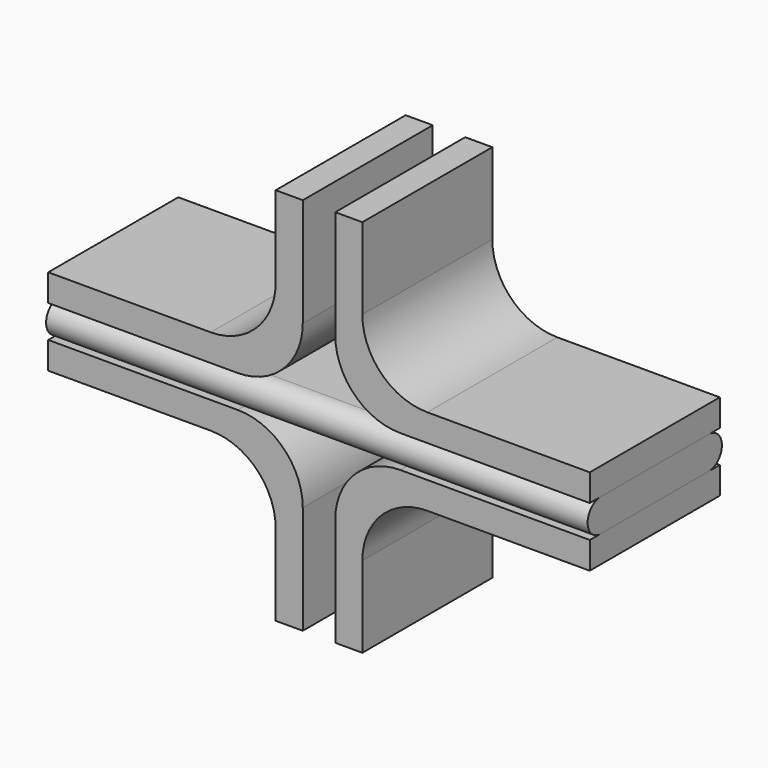
from build123d import *

# Parameters (mm, degrees)
F1_DEPTH = 50
F3_DEPTH = 15


with BuildPart() as f1:
    # F0 (on Right) → F1 (new body, symmetric)
    with BuildSketch(Plane.YZ):
        with BuildLine():
            Line((12.5, 3), (-12.5, 3))
            ThreePointArc((-12.5, 3), (-15.5, 0), (-12.5, -3))
            Line((-12.5, -3), (12.5, -3))
            ThreePointArc((12.5, -3), (15.5, 0), (12.5, 3))
        make_face()
    extrude(amount=F1_DEPTH, both=True)


with BuildPart() as f3:
    # F2 (on Front) → F3 (new body, symmetric)
    with BuildSketch(Plane.XZ):
        with BuildLine():
            Line((-20, 8), (-50, 8))
            Line((-50, 8), (-50, 3))
            Line((-50, 3), (-15, 3))
            ThreePointArc((-15, 3), (-6.514719, 6.514719), (-3, 15))
            Line((-3, 15), (-3, 35))
            Line((-3, 35), (-8, 35))
            Line((-8, 35), (-8, 20))
            ThreePointArc((-8, 20), (-11.514719, 11.514719), (-20, 8))
        make_face()
        with BuildLine():
            ThreePointArc((3, 15), (6.514719, 6.514719), (15, 3))
            Line((15, 3), (50, 3))
            Line((50, 3), (50, 8))
            Line((50, 8), (20, 8))
            ThreePointArc((20, 8), (11.514719, 11.514719), (8, 20))
            Line((8, 20), (8, 35))
            Line((8, 35), (3, 35))
            Line((3, 35), (3, 15))
        make_face()
        with BuildLine():
            Line((-15, -3), (-50, -3))
            Line((-50, -3), (-50, -8))
            Line((-50, -8), (-20, -8))
            ThreePointArc((-20, -8), (-11.514719, -11.514719), (-8, -20))
            Line((-8, -20), (-8, -35))
            Line((-8, -35), (-3, -35))
            Line((-3, -35), (-3, -15))
            ThreePointArc((-3, -15), (-6.514719, -6.514719), (-15, -3))
        make_face()
        with BuildLine():
            Line((50, -3), (15, -3))
            ThreePointArc((15, -3), (6.514719, -6.514719), (3, -15))
            Line((3, -15), (3, -35))
            Line((3, -35), (8, -35))
            Line((8, -35), (8, -20))
            ThreePointArc((8, -20), (11.514719, -11.514719), (20, -8))
            Line((20, -8), (50, -8))
            Line((50, -8), (50, -3))
        make_face()
    extrude(amount=F3_DEPTH, both=True)


solid = Compound([f1.part, f3.part])
